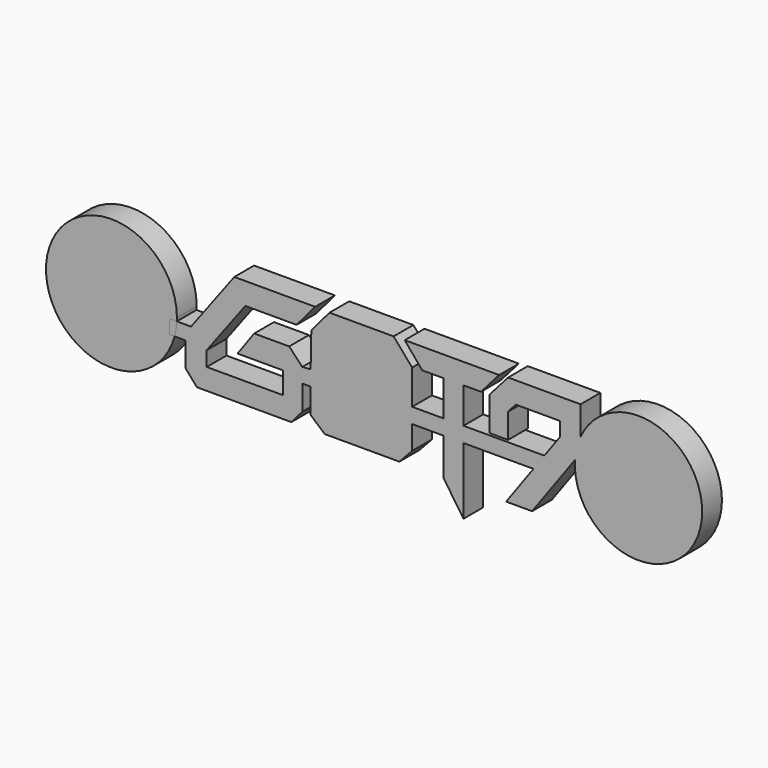
from build123d import *

# Parameters (mm, degrees)
F0_W     = 26.1089192261
F0_H     = 3.9108566001
F1_DEPTH = 6.35
F3_DEPTH = 6.35
F2_R     = 16.3697658046
F2_W     = 1.3287387717
F2_H     = 3.5829652334
F4_DEPTH = 6.35


with BuildPart() as f1:
    # F0 (on Front) → F1 (new body)
    with BuildSketch(Plane.XZ):
        Polygon((-17.2716648454, 8.3683752126), (-12.4890261563, 14.0050568812), (-33.2854723321, 14.0050568812), (-45.8293622946, -2.7476381483), (-45.8293622946, -10.7526200239), (-42.924048809, -14.0997227066), (-18.6173166222, -14.0997227066), (-15.7900494681, -10.8351450901), (-15.7900494681, -4.4349345413), (-15.7900494681, -0.6844981479), (-19.1735985349, 2.8641023428), (-28.1688865431, 2.8641023428), (-32.4602175373, -3.0777403073), (-20.8241108796, -3.0777403073), (-20.8241108796, -8.689479593), (-40.3826734857, -8.689479593), (-40.3826734857, -4.8933031288), (-30.4567566351, 8.3683752126), align=None)
        Polygon((-15.7900494681, -0.6844981479), (-15.7900494681, -4.4349345413), (-13.6534879907, -4.4349345413), (-13.6534879907, -0.5240779412), align=None)
        Polygon((-13.4795079801, 8.3683752126), (-13.6534879907, -0.5240779412), (12.4554312354, -0.5240779412), (12.4554312354, 8.3683752126), (7.6892861493, 13.8719277541), (-8.8098273311, 13.8719277541), align=None)
        Polygon((12.4554312354, -4.4349345413), (-13.6534879907, -4.4349345413), (-13.6534879907, -10.8778495407), (-10.0223072469, -14.0183292718), (9.1640663944, -14.0183292718), (12.4554312354, -10.5037926609), align=None)
        with Locations((-0.5990283776, -2.4795062412)):
            Rectangle(F0_W, F0_H)
        Polygon((12.4554312354, -0.5240779412), (12.4554312354, -4.4349345413), (20.5025033344, -4.4349345413), (20.4924039301, -0.5240779412), align=None)
        Polygon((20.4924039301, -0.5240779412), (20.5025033344, -4.4349345413), (25.6624393119, -4.4349345413), (25.6624393119, -0.5240779412), align=None)
        Polygon((25.6624393119, -4.4349345413), (20.5025033344, -4.4349345413), (20.5272515133, -14.0183292718), (25.6624393119, -21.5849358625), align=None)
        Polygon((20.4688984527, 8.5780975808), (20.4924039301, -0.5240779412), (25.6624393119, -0.5240779412), (25.6624393119, 8.6364520189), (30.1557282913, 8.6364520189), (34.824080585, 13.9467024431), (10.5486494841, 13.9467024431), (15.0419384635, 8.5780975808), align=None)
        Polygon((25.6624393119, -0.5240779412), (25.6624393119, -4.4349345413), (43.6452688808, -4.4349345413), (46.4731191558, -0.5240779412), align=None)
        Polygon((46.4731191558, -0.5240779412), (43.6452688808, -4.4349345413), (36.63333265, -14.1322927537), (43.3068559529, -14.1322927537), (55.7706377054, 3.0422103174), (55.7706377054, 14.1320324027), (37.1240322851, 14.1320324027), (32.2927525449, 8.6364520189), (32.2927525449, 0), (37.1240322851, 0), (37.1240322851, 6.4059590582), (39.0849053321, 8.6364520189), (50.4710761359, 8.6364520189), (50.4710761359, 5.0050112685), align=None)
    extrude(amount=F1_DEPTH)



with BuildPart() as f3:
    # F2 (on Front) → F3 (new body)
    with BuildSketch(Plane.XZ):
        with BuildLine():
            ThreePointArc((-48.0712823183, -0.8643780602), (-48.0546292637, -0.4323316164), (-48.0490770247, 0))
            ThreePointArc((-48.0490770247, 0), (-81.5684530665, 2.2436879547), (-48.6471407187, -4.4473432936))
            Line((-48.6471407187, -4.4473432936), (-49.9758794904, -4.4473432936))
            Line((-49.9758794904, -4.4473432936), (-49.9758794904, -0.8643780602))
            Line((-49.9758794904, -0.8643780602), (-48.6471407187, -0.8643780602))
            Line((-48.6471407187, -0.8643780602), (-48.0712823183, -0.8643780602))
        make_face()
    extrude(amount=F3_DEPTH)


with BuildPart() as f1_1:
    add(f1.part)

    add(f3.part)  # F3#2 merges F3
    # F2 (on Front) → F3, piece 2 (join)
    with BuildSketch(Plane.XZ):
        with BuildLine():
            ThreePointArc((-48.0712823183, -0.8643780602), (-48.2623854024, -2.6714226845), (-48.6471407187, -4.4473432936))
            Line((-48.6471407187, -4.4473432936), (-44.4687306881, -4.4473432936))
            Line((-44.4687306881, -4.4473432936), (-44.4687306881, -0.8643780602))
            Line((-44.4687306881, -0.8643780602), (-48.0712823183, -0.8643780602))
        make_face()
        with Locations((70.6794634461, 0)):
            Circle(F2_R)
    extrude(amount=F3_DEPTH)


with BuildPart() as f4:
    # F2 (on Front) → F4 (new body)
    with BuildSketch(Plane.XZ):
        with Locations((-49.3115101045, -2.6558606769)):
            Rectangle(F2_W, F2_H)
        with BuildLine():
            Line((-48.6471407187, -0.8643780602), (-48.6471407187, -4.4473432936))
            ThreePointArc((-48.6471407187, -4.4473432936), (-48.2623854024, -2.6714226845), (-48.0712823183, -0.8643780602))
            Line((-48.0712823183, -0.8643780602), (-48.6471407187, -0.8643780602))
        make_face()
    extrude(amount=F4_DEPTH)


solid = Compound([f1_1.part, f4.part])
